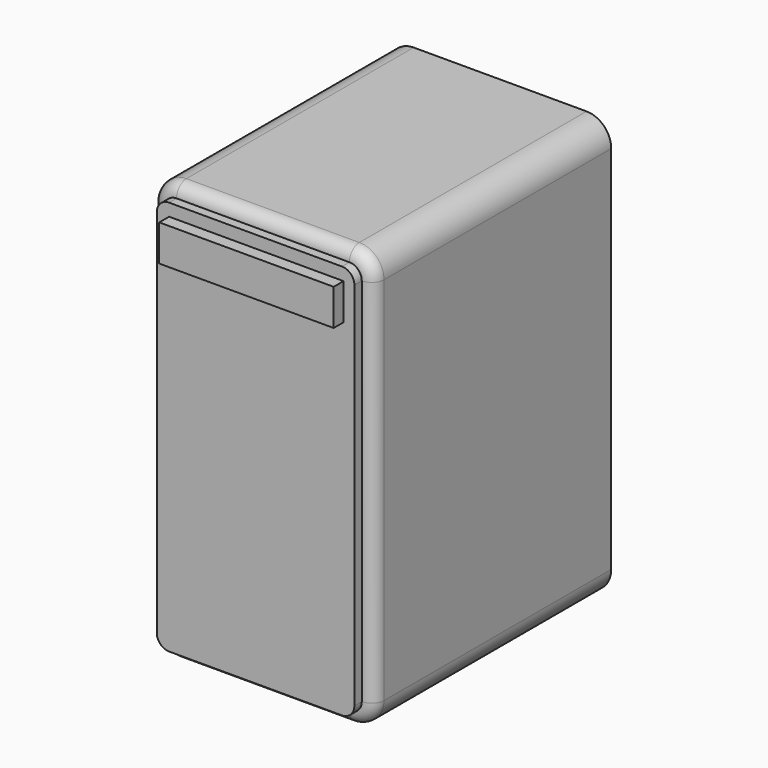
from build123d import *

# Parameters (mm, degrees)
F0_W     = 457.2
F0_H     = 609.6
F1_DEPTH = 863.6
F2_R     = 50.8
F3_R     = 25.4
F5_DEPTH = 19.05
F6_W     = 358.7785915852
F6_H     = 74.5661356926
F7_DEPTH = 25.4


with BuildPart() as f1:
    # F0 (on Top) → F1 (new body)
    with BuildSketch(Plane.XY):
        with Locations((228.6, 304.8)):
            Rectangle(F0_W, F0_H)
    extrude(amount=F1_DEPTH)

    # F2
    f2_edges = [f1.edges().sort_by_distance(p)[0] for p in [
        (0, 304.8, 863.6),
        (457.2, 304.8, 863.6),
        (457.2, 304.8, 0),
        (0, 304.8, 0),
    ]]
    fillet(f2_edges, radius=F2_R)

    # F3
    f3_edges = [f1.edges().sort_by_distance(p)[0] for p in [
        (228.6, 0, 863.6),
        (0, 0, 431.8),
        (14.878976, 0, 14.878976),
        (14.878976, 0, 848.721024),
        (228.6, 0, 0),
        (442.321024, 0, 14.878976),
        (442.321024, 0, 848.721024),
        (457.2, 0, 431.8),
    ]]
    fillet(f3_edges, radius=F3_R)


with BuildPart() as f5:
    # F4 (on face) → F5 (new body)
    with BuildSketch(Plane.XZ):
        with BuildLine():
            ThreePointArc((431.8, 812.8), (424.3605122421, 830.7605122421), (406.4, 838.2))
            Line((406.4, 838.2), (50.8, 838.2))
            ThreePointArc((50.8, 838.2), (32.8394877579, 830.7605122421), (25.4, 812.8))
            Line((25.4, 812.8), (25.4, 50.8))
            ThreePointArc((25.4, 50.8), (32.8394877579, 32.8394877579), (50.8, 25.4))
            Line((50.8, 25.4), (406.4, 25.4))
            ThreePointArc((406.4, 25.4), (424.3605122421, 32.8394877579), (431.8, 50.8))
            Line((431.8, 50.8), (431.8, 812.8))
        make_face()
    extrude(amount=F5_DEPTH)


with BuildPart() as f7:
    # F6 (on face) → F7 (new body)
    with BuildSketch(Plane.XZ.offset(19.05)):
        with Locations((230.1892957926, 775.5169321537)):
            Rectangle(F6_W, F6_H)
    extrude(amount=F7_DEPTH)


solid = Compound([f1.part, f5.part, f7.part])
